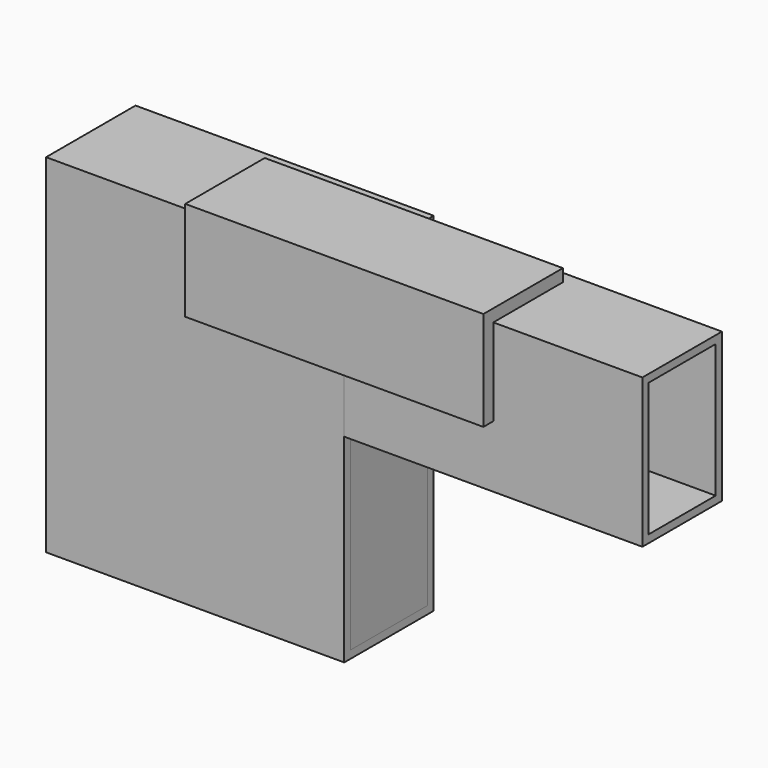
from build123d import *

# Parameters (mm, degrees)
F0_W      = 152.4
F0_H      = 57.15
F1_DEPTH  = 177.8
F2_T      = -3.9878
F3_DEPTH  = 3.9888
F5_W      = 49.1744
F5_H      = 169.8244
F6_DEPTH  = 3.9878
F7_W      = 50.8
F7_H      = 76.2
F8_DEPTH  = 152.4
F9_T      = -3.9878
F10_DEPTH = 3.9878
F12_W     = 152.4
F12_H     = 50.8
F13_DEPTH = 6.35
F14_W     = 152.4
F14_H     = 6.35
F15_DEPTH = 44.45


with BuildPart() as f1:
    # F0 (on Top) → F1 (new body)
    with BuildSketch(Plane.XY):
        with Locations((76.2, 28.575)):
            Rectangle(F0_W, F0_H)
    extrude(amount=F1_DEPTH)

    # F2
    f2_openings = [f1.faces().sort_by_distance(p)[0] for p in [
        (152.4, 28.575, 88.9),
    ]]
    offset(amount=F2_T, openings=f2_openings)

    # F3 (cut, through all): a face of the model
    f3_faces = [f1.faces().sort_by_distance(p)[0] for p in [
        (3.9878, 28.575, 88.9),
    ]]
    extrude(f3_faces, amount=-F3_DEPTH, mode=Mode.SUBTRACT)


with BuildPart() as f6:
    # F5 (on offset) → F6 (new body)
    with BuildSketch(Plane.YZ.offset(152.4)):
        with Locations((28.575, 88.9)):
            Rectangle(F5_W, F5_H)
    extrude(amount=-F6_DEPTH)


with BuildPart() as f8:
    # F7 (on offset) → F8 (new body)
    with BuildSketch(Plane.YZ.offset(152.4)):
        with Locations((25.4, 139.7)):
            Rectangle(F7_W, F7_H)
    extrude(amount=F8_DEPTH)

    # F9
    f9_openings = [f8.faces().sort_by_distance(p)[0] for p in [
        (304.8, 25.4, 139.7),
    ]]
    offset(amount=F9_T, openings=f9_openings)

    # F10 (cut, through all): a face of the model
    f10_faces = [f8.faces().sort_by_distance(p)[0] for p in [
        (156.3878, 25.4, 139.7),
    ]]
    extrude(f10_faces, amount=-F10_DEPTH, mode=Mode.SUBTRACT)


with BuildPart() as f13:
    # F12 (on mid) → F13 (new body)
    with BuildSketch(Plane.XY.offset(177.8)):
        with Locations((152.4, 19.05)):
            Rectangle(F12_W, F12_H)
    extrude(amount=F13_DEPTH)

    # F14 (on face) → F15 (join)
    with BuildSketch(Plane(origin=(0, 0, 177.8), x_dir=(1, 0, 0), z_dir=(0, 0, -1))):
        with Locations((152.4, 3.175)):
            Rectangle(F14_W, F14_H)
    extrude(amount=F15_DEPTH)


solid = Compound([f1.part, f6.part, f8.part, f13.part])
